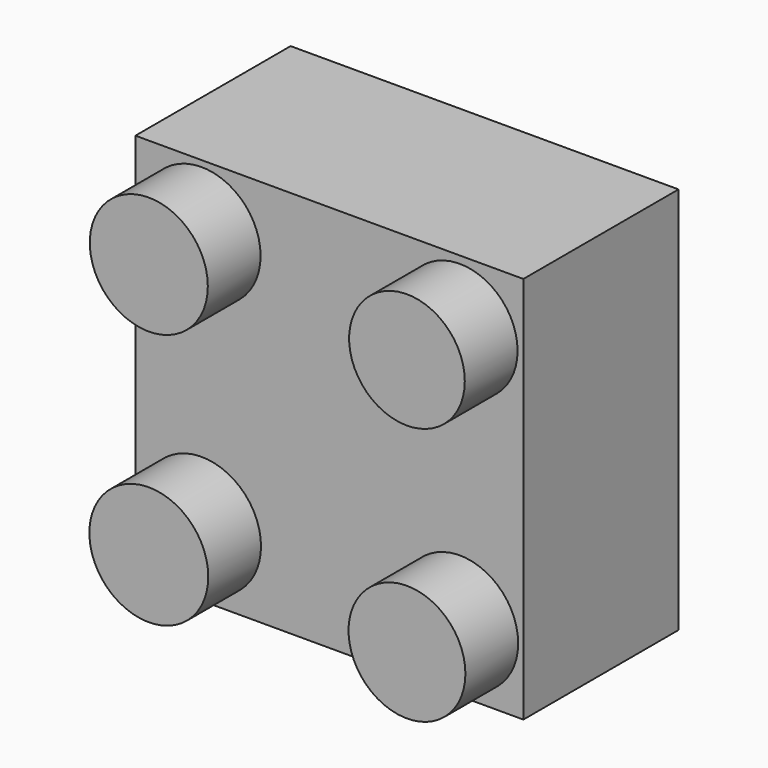
from build123d import *

# Parameters (mm, degrees)
F0_W     = 25.4
F0_H     = 25.4
F1_DEPTH = 12.7
F2_R     = 3.892272
F3_DEPTH = 17.018
F2_R_2   = 3.825823
F4_DEPTH = 17.018
F2_R_3   = 3.864432
F5_DEPTH = 17.018
F2_R_4   = 3.786819
F6_DEPTH = 17.018


with BuildPart() as f1:
    # F0 (on Front) → F1 (new body)
    with BuildSketch(Plane.XZ):
        with Locations((0.061012, -3.750413)):
            Rectangle(F0_W, F0_H)
    extrude(amount=F1_DEPTH)

    # F2 (on Front) → F3 (join)
    with BuildSketch(Plane.XZ):
        with Locations((-8.308703, -12.045457)):
            Circle(F2_R)
    extrude(amount=F3_DEPTH)

    # F2 (on Front) → F4 (join)
    with BuildSketch(Plane.XZ):
        with Locations((8.594656, -12.16163)):
            Circle(F2_R_2)
    extrude(amount=F4_DEPTH)

    # F2 (on Front) → F5 (join)
    with BuildSketch(Plane.XZ):
        with Locations((-8.308703, 4.683642)):
            Circle(F2_R_3)
    extrude(amount=F5_DEPTH)

    # F2 (on Front) → F6 (join)
    with BuildSketch(Plane.XZ):
        with Locations((8.594656, 4.683642)):
            Circle(F2_R_4)
    extrude(amount=F6_DEPTH)


solid = f1.part
